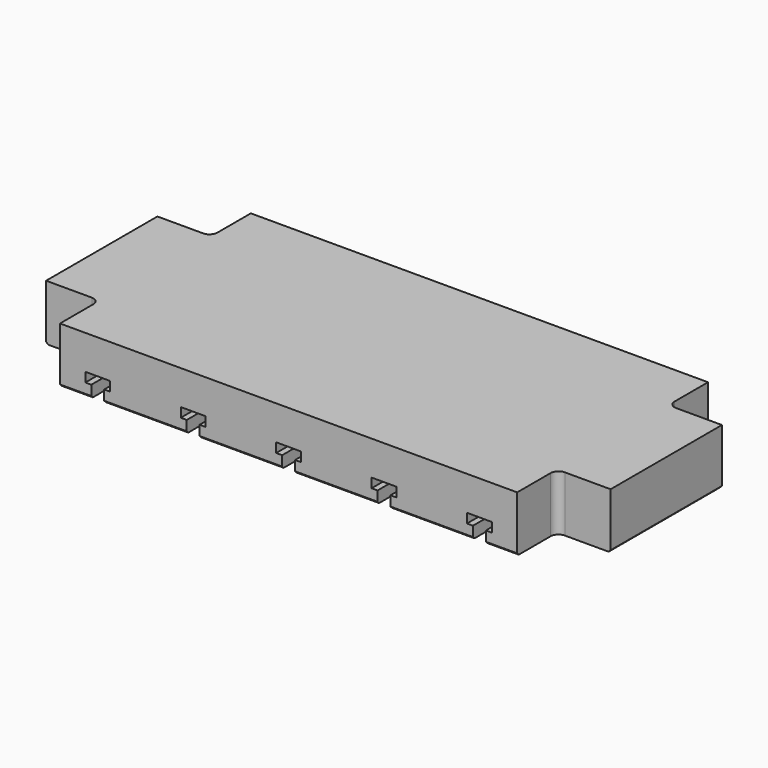
from build123d import *

# Parameters (mm, degrees)
F0_W     = 901.7
F0_H     = 381
F1_DEPTH = 88.9
F2_SIZE  = 3.175
F4_DEPTH = 381.001
F6_DEPTH = 88.901
F8_ANGLE = 180


with BuildPart() as f1:
    # F0 (on Top) → F1 (new body)
    with BuildSketch(Plane.XY):
        Rectangle(F0_W, F0_H)
    extrude(amount=F1_DEPTH)

    # F2
    f2_edges = [f1.edges().sort_by_distance(p)[0] for p in [
        (0, -190.5, 88.9),
        (450.85, 0, 88.9),
        (0, 190.5, 88.9),
        (-450.85, 0, 88.9),
    ]]
    chamfer(f2_edges, length=F2_SIZE)

    # F3 (on face) → F4 (cut, through all)
    with BuildSketch(Plane.XZ.offset(190.5)):
        Polygon((315.11875, 88.9), (294.48125, 88.9), (294.48125, 69.85), (284.95625, 69.85), (284.95625, 54.76875), (324.64375, 54.76875), (324.64375, 69.85), (315.11875, 69.85), align=None)
        Polygon((162.71875, 88.9), (142.08125, 88.9), (142.08125, 69.85), (132.55625, 69.85), (132.55625, 54.76875), (172.24375, 54.76875), (172.24375, 69.85), (162.71875, 69.85), align=None)
        Polygon((10.31875, 88.9), (-10.31875, 88.9), (-10.31875, 69.85), (-19.84375, 69.85), (-19.84375, 54.76875), (19.84375, 54.76875), (19.84375, 69.85), (10.31875, 69.85), align=None)
        Polygon((-142.08125, 88.9), (-162.71875, 88.9), (-162.71875, 69.85), (-172.24375, 69.85), (-172.24375, 54.76875), (-132.55625, 54.76875), (-132.55625, 69.85), (-142.08125, 69.85), align=None)
        Polygon((-294.48125, 88.9), (-315.11875, 88.9), (-315.11875, 69.85), (-324.64375, 69.85), (-324.64375, 54.76875), (-284.95625, 54.76875), (-284.95625, 69.85), (-294.48125, 69.85), align=None)
    extrude(amount=-F4_DEPTH, mode=Mode.SUBTRACT)

    # F5 (on face) → F6 (cut, through all)
    with BuildSketch(Plane(origin=(0, 0, 0), x_dir=(1, 0, 0), z_dir=(0, 0, -1))):
        with BuildLine():
            Line((-450.85, -190.5), (-365.125, -190.5))
            Line((-365.125, -190.5), (-365.125, -123.825))
            ThreePointArc((-365.125, -123.825), (-368.844744, -114.844744), (-377.825, -111.125))
            Line((-377.825, -111.125), (-450.85, -111.125))
            Line((-450.85, -111.125), (-450.85, -190.5))
        make_face()
        with BuildLine():
            ThreePointArc((377.825, -111.125), (368.844744, -114.844744), (365.125, -123.825))
            Line((365.125, -123.825), (365.125, -190.5))
            Line((365.125, -190.5), (450.85, -190.5))
            Line((450.85, -190.5), (450.85, -111.125))
            Line((450.85, -111.125), (377.825, -111.125))
        make_face()
        with BuildLine():
            Line((365.125, 190.5), (365.125, 123.825))
            ThreePointArc((365.125, 123.825), (368.844744, 114.844744), (377.825, 111.125))
            Line((377.825, 111.125), (450.85, 111.125))
            Line((450.85, 111.125), (450.85, 190.5))
            Line((450.85, 190.5), (365.125, 190.5))
        make_face()
        with BuildLine():
            ThreePointArc((-377.825, 111.125), (-368.844744, 114.844744), (-365.125, 123.825))
            Line((-365.125, 123.825), (-365.125, 190.5))
            Line((-365.125, 190.5), (-450.85, 190.5))
            Line((-450.85, 190.5), (-450.85, 111.125))
            Line((-450.85, 111.125), (-377.825, 111.125))
        make_face()
    extrude(amount=-F6_DEPTH, mode=Mode.SUBTRACT)


with BuildPart() as f1_1:
    # F8: moved
    add(f1.part.rotate(Axis((1.057014, 0, 0), (1, 0, 0)), F8_ANGLE))


solid = f1_1.part
